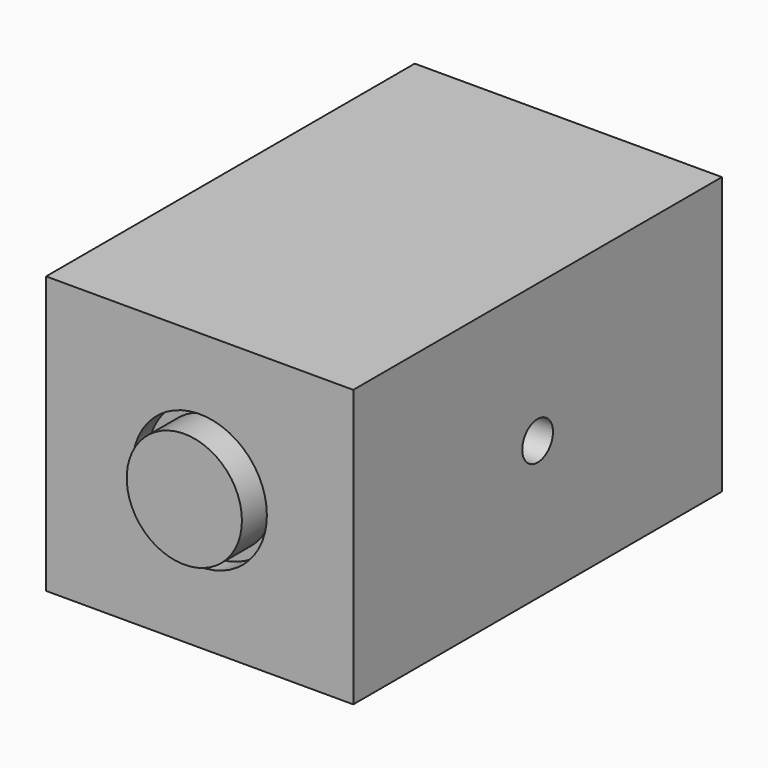
from build123d import *

# Parameters (mm, degrees)
F0_W      = 152.4
F0_H      = 91.581002
F1_DEPTH  = 50.8
F2_R      = 19.05
F3_DEPTH  = 152.4
F2_R_2    = 22.225
F4_DEPTH  = 6.35
F5_R      = 22.225
F5_R_2    = 19.05
F6_DEPTH  = 6.35
F7_R      = 19.05
F8_DEPTH  = 82.55
F10_R     = 6.35
F11_DEPTH = 152.4
F12_R     = 6.35
F13_DEPTH = 38.1


with BuildPart() as f1:
    # F0 (on Right) → F1 (new body, symmetric)
    with BuildSketch(Plane.YZ):
        Rectangle(F0_W, F0_H)
    extrude(amount=F1_DEPTH, both=True)

    # F2 (on face) → F3 (cut, symmetric)
    with BuildSketch(Plane(origin=(0, 76.2, 0), x_dir=(-1, 0, 0), z_dir=(0, 1, 0))):
        Circle(F2_R)
    extrude(amount=F3_DEPTH, both=True, mode=Mode.SUBTRACT)

    # F2 (on face) → F4 (cut)
    with BuildSketch(Plane(origin=(0, 76.2, 0), x_dir=(-1, 0, 0), z_dir=(0, 1, 0))):
        Circle(F2_R_2)
        Circle(F2_R, mode=Mode.SUBTRACT)
    extrude(amount=-F4_DEPTH, mode=Mode.SUBTRACT)

    # F5 (on face) → F6 (cut)
    with BuildSketch(Plane.XZ.offset(76.2)):
        Circle(F5_R)
        Circle(F5_R_2, mode=Mode.SUBTRACT)
    extrude(amount=-F6_DEPTH, mode=Mode.SUBTRACT)

    # F7 (on Front) → F8 (join, symmetric)
    with BuildSketch(Plane.XZ):
        Circle(F7_R)
    extrude(amount=F8_DEPTH, both=True)

    # F10 (on face) → F11 (cut)
    with BuildSketch(Plane(origin=(-50.8, 0, 0), x_dir=(0, -1, 0), z_dir=(-1, 0, 0))):
        Circle(F10_R)
    extrude(amount=-F11_DEPTH, mode=Mode.SUBTRACT)

    # F12 (on Right) → F13 (join, symmetric)
    with BuildSketch(Plane.YZ):
        Circle(F12_R)
    extrude(amount=F13_DEPTH, both=True)


solid = f1.part
